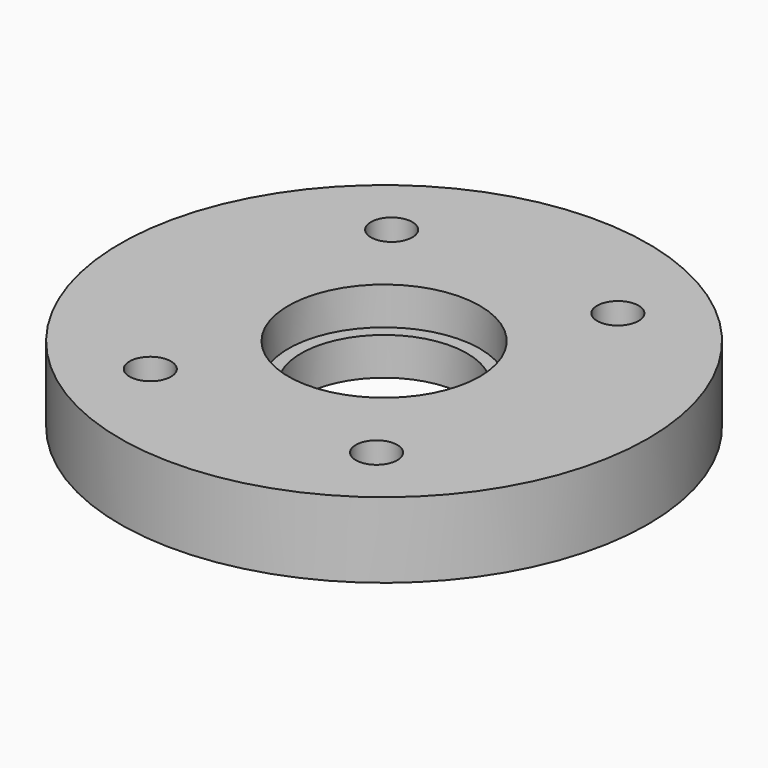
from build123d import *

# Parameters (mm, degrees)
F2_R     = 2.75
F3_DEPTH = 10


with BuildPart() as f1:
    # F0 (on Front) → F1 (revolve)
    with BuildSketch(Plane.XZ):
        Polygon((11, 5), (11, 0), (35, 0), (35, 10), (12.7, 10), (12.7, 5), align=None)
    revolve(axis=Axis((0, 0, 6.447879), (0, 0, 1)))

    # F2 (on face) → F3 (cut)
    with BuildSketch(Plane.XY.offset(10)):
        with Locations((-15, 20)):
            Circle(F2_R)
        with Locations((-15, -20)):
            Circle(F2_R)
        with Locations((15, -20)):
            Circle(F2_R)
        with Locations((15, 20)):
            Circle(F2_R)
    extrude(amount=-F3_DEPTH, mode=Mode.SUBTRACT)


solid = f1.part
